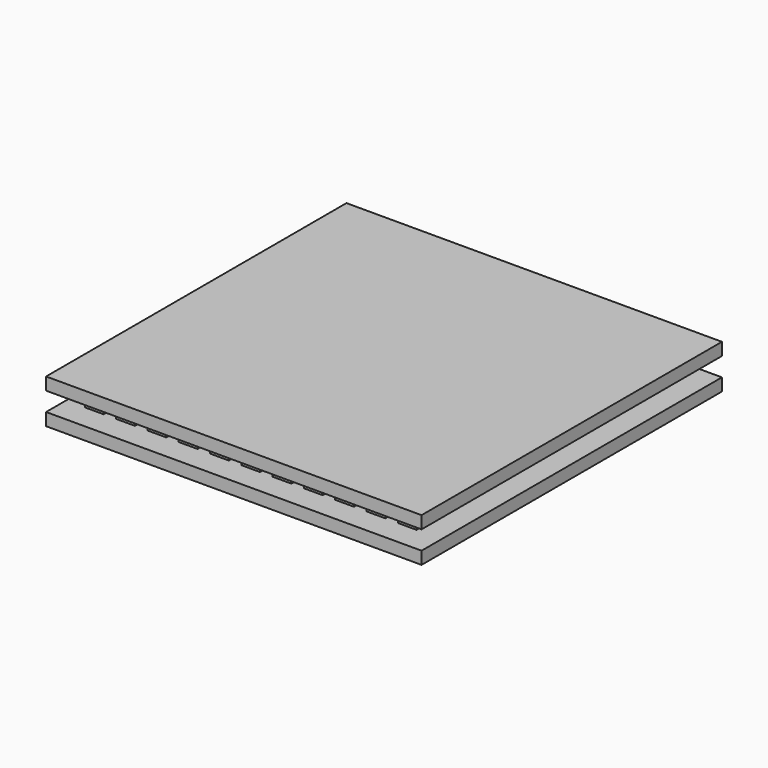
from build123d import *

# Parameters (mm, degrees)
F0_W     = 30
F0_H     = 30
F1_DEPTH = 1
F2_W     = 1.5
F2_H     = 1.4999990595
F3_DEPTH = 1.5
F4_W     = 30
F4_H     = 30
F5_DEPTH = 1


with BuildPart() as f1:
    # F0 (on Top) → F1 (new body)
    with BuildSketch(Plane.XY):
        Rectangle(F0_W, F0_H)
    extrude(amount=-F1_DEPTH)

    # F2 (on face) → F3 (join)
    with BuildSketch(Plane.XY):
        with Locations((-12.75, 12.7500004702)):
            Rectangle(F2_W, F2_H)
        with Locations((-10.25, 12.7500004702)):
            Rectangle(F2_W, F2_H)
        with Locations((-7.75, 12.7500004702)):
            Rectangle(F2_W, F2_H)
        with Locations((-5.25, 12.7500004702)):
            Rectangle(F2_W, F2_H)
        with Locations((-2.75, 12.7500004702)):
            Rectangle(F2_W, F2_H)
        with Locations((-0.25, 12.7500004702)):
            Rectangle(F2_W, F2_H)
        with Locations((2.25, 12.7500004702)):
            Rectangle(F2_W, F2_H)
        with Locations((4.75, 12.7500004702)):
            Rectangle(F2_W, F2_H)
        with Locations((7.25, 12.7500004702)):
            Rectangle(F2_W, F2_H)
        with Locations((9.75, 12.7500004702)):
            Rectangle(F2_W, F2_H)
        with Locations((12.25, 12.7500004702)):
            Rectangle(F2_W, F2_H)
        with Locations((12.25, 10.2500004702)):
            Rectangle(F2_W, F2_H)
        with Locations((-12.75, 10.2500004702)):
            Rectangle(F2_W, F2_H)
        with Locations((12.25, 7.7500004702)):
            Rectangle(F2_W, F2_H)
        with Locations((-12.75, 7.7500004702)):
            Rectangle(F2_W, F2_H)
        with Locations((12.25, 5.2500004702)):
            Rectangle(F2_W, F2_H)
        with Locations((-12.75, 5.2500004702)):
            Rectangle(F2_W, F2_H)
        with Locations((12.25, 2.7500004702)):
            Rectangle(F2_W, F2_H)
        with Locations((-12.75, 2.7500004702)):
            Rectangle(F2_W, F2_H)
        with Locations((12.25, 0.2500004702)):
            Rectangle(F2_W, F2_H)
        with Locations((-12.75, 0.2500004702)):
            Rectangle(F2_W, F2_H)
        with Locations((12.25, -2.2499995298)):
            Rectangle(F2_W, F2_H)
        with Locations((-12.75, -2.2499995298)):
            Rectangle(F2_W, F2_H)
        with Locations((12.25, -4.7499995298)):
            Rectangle(F2_W, F2_H)
        with Locations((-12.75, -4.7499995298)):
            Rectangle(F2_W, F2_H)
        with Locations((12.25, -7.2499995298)):
            Rectangle(F2_W, F2_H)
        with Locations((-12.75, -7.2499995298)):
            Rectangle(F2_W, F2_H)
        with Locations((12.25, -9.7499995298)):
            Rectangle(F2_W, F2_H)
        with Locations((-12.75, -9.7499995298)):
            Rectangle(F2_W, F2_H)
        with Locations((-0.25, -12.2499995298)):
            Rectangle(F2_W, F2_H)
        with Locations((9.75, -12.2499995298)):
            Rectangle(F2_W, F2_H)
        with Locations((-5.25, -12.2499995298)):
            Rectangle(F2_W, F2_H)
        with Locations((-10.25, -12.2499995298)):
            Rectangle(F2_W, F2_H)
        with Locations((4.75, -12.2499995298)):
            Rectangle(F2_W, F2_H)
        with Locations((-2.75, -12.2499995298)):
            Rectangle(F2_W, F2_H)
        with Locations((7.25, -12.2499995298)):
            Rectangle(F2_W, F2_H)
        with Locations((2.25, -12.2499995298)):
            Rectangle(F2_W, F2_H)
        with Locations((12.25, -12.2499995298)):
            Rectangle(F2_W, F2_H)
        with Locations((-7.75, -12.2499995298)):
            Rectangle(F2_W, F2_H)
        with Locations((-12.75, -12.2499995298)):
            Rectangle(F2_W, F2_H)
    extrude(amount=F3_DEPTH)

    # F4 (on face) → F5 (join)
    with BuildSketch(Plane.XY.offset(1.5)):
        Rectangle(F4_W, F4_H)
    extrude(amount=F5_DEPTH)


solid = f1.part
